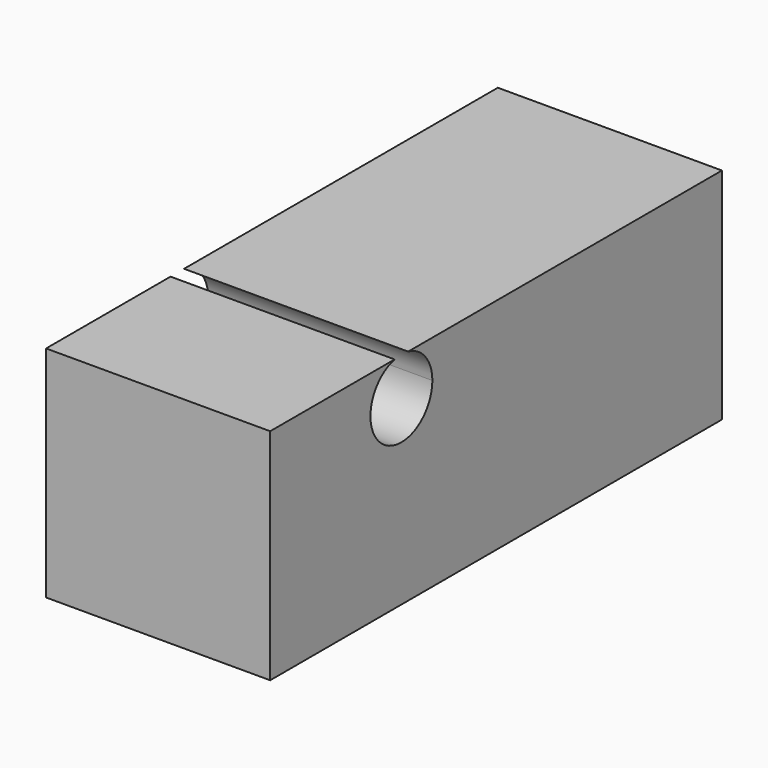
from build123d import *

# Parameters (mm, degrees)
F0_W     = 50.403144
F0_H     = 49.315307
F1_DEPTH = 127
F3_DEPTH = 50.403144


with BuildPart() as f1:
    # F0 (on Front) → F1 (new body)
    with BuildSketch(Plane.XZ):
        with Locations((25.201572, 24.657653)):
            Rectangle(F0_W, F0_H)
    extrude(amount=-F1_DEPTH)

    # F2 (on face) → F3 (cut, through all)
    with BuildSketch(Plane.YZ.offset(50.403144)):
        with BuildLine():
            ThreePointArc((34.986518, 49.315307), (31.450498, 34.029868), (45.592546, 40.823288))
            ThreePointArc((45.592546, 40.823288), (43.683264, 46.262634), (38.793169, 49.315307))
            Line((38.793169, 49.315307), (34.986518, 49.315307))
        make_face()
    extrude(amount=-F3_DEPTH, mode=Mode.SUBTRACT)


solid = f1.part
